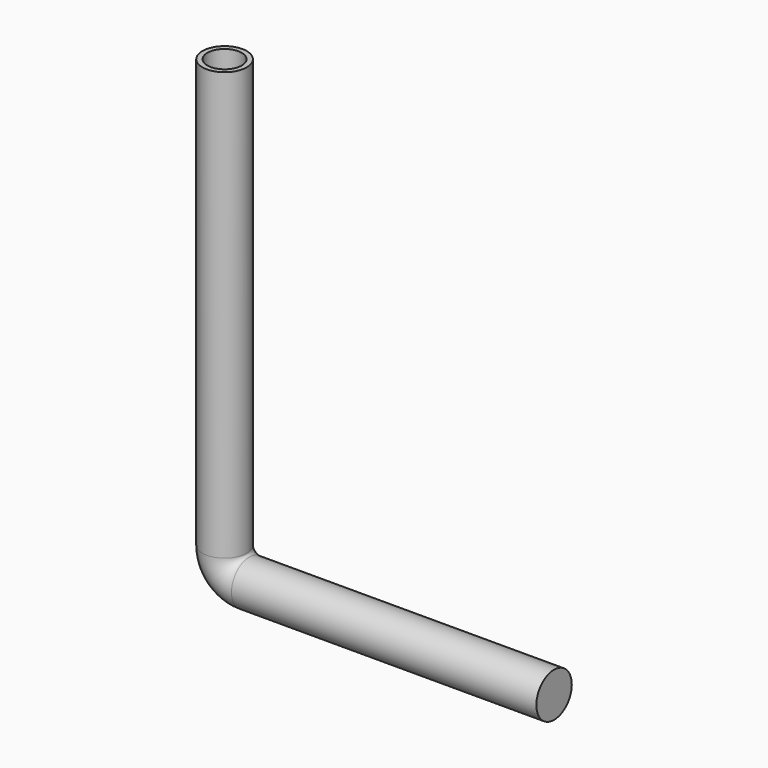
from build123d import *

# Parameters (mm, degrees)
F0_R     = 5.715
F1_DEPTH = 78.74
F3_D     = 8.89
F3_DEPTH = 38.1
F3_TIP   = 2.6708254516
F4_R     = 5.715


with BuildPart() as f1:
    # F0 (on Top) → F1 (new body)
    with BuildSketch(Plane.XY):
        Circle(F0_R)
    extrude(amount=F1_DEPTH)

    # F3
    with Locations(Plane.XY.offset(78.74)):
        with Locations((0, 0)):
            Hole(F3_D / 2, depth=F3_DEPTH)
            with Locations((0, 0, -(F3_DEPTH + F3_TIP / 2))):  # 118° drill point
                Cone(0, F3_D / 2, F3_TIP, mode=Mode.SUBTRACT)

    # F6: sweep along a path in F5
    with BuildLine(Plane.XZ) as f6_path:
        Line((0, 0), (0, -31.75))
        ThreePointArc((0, -31.75), (1.8598719395, -36.2401280605), (6.35, -38.1))
        Line((6.35, -38.1), (85.09, -38.1))
    # F4 (on face) → F6 (sweep)
    with BuildSketch(Plane(origin=(0, 0, 0), x_dir=(1, 0, 0), z_dir=(0, 0, -1))):
        Circle(F4_R)
    sweep(path=f6_path.line)


solid = f1.part
